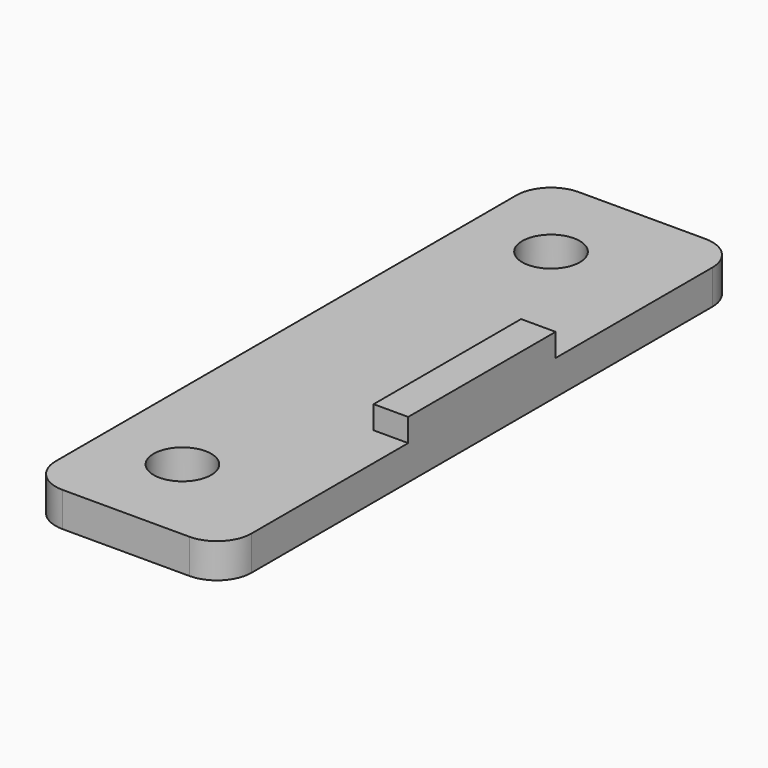
from build123d import *

# Parameters (mm, degrees)
SKETCH_W     = 17
SKETCH_H     = 56
SKETCH_R     = 2.5
PAD_DEPTH    = 3
SKETCH001_W  = 3
SKETCH001_H  = 16
PAD001_DEPTH = 5
FILLET_R     = 3


with BuildPart() as part:
    # Sketch → Pad (new body)
    with BuildSketch(Plane.XY):
        with Locations((8.5, 8)):
            Rectangle(SKETCH_W, SKETCH_H)
        with Locations((7, 28)):
            Circle(SKETCH_R, mode=Mode.SUBTRACT)
        with Locations((7, -12)):
            Circle(SKETCH_R, mode=Mode.SUBTRACT)
    extrude(amount=PAD_DEPTH)

    # Sketch001 → Pad001 (join)
    with BuildSketch(Plane.XY):
        with Locations((15.5, 8)):
            Rectangle(SKETCH001_W, SKETCH001_H)
    extrude(amount=PAD001_DEPTH)

    # Fillet
    fillet_edges = [part.edges().sort_by_distance(p)[0] for p in [
        (17, -20, 1.5),
        (0, -20, 1.5),
        (17, 36, 1.5),
        (0, 36, 1.5),
    ]]
    fillet(fillet_edges, radius=FILLET_R)


solid = part.part
